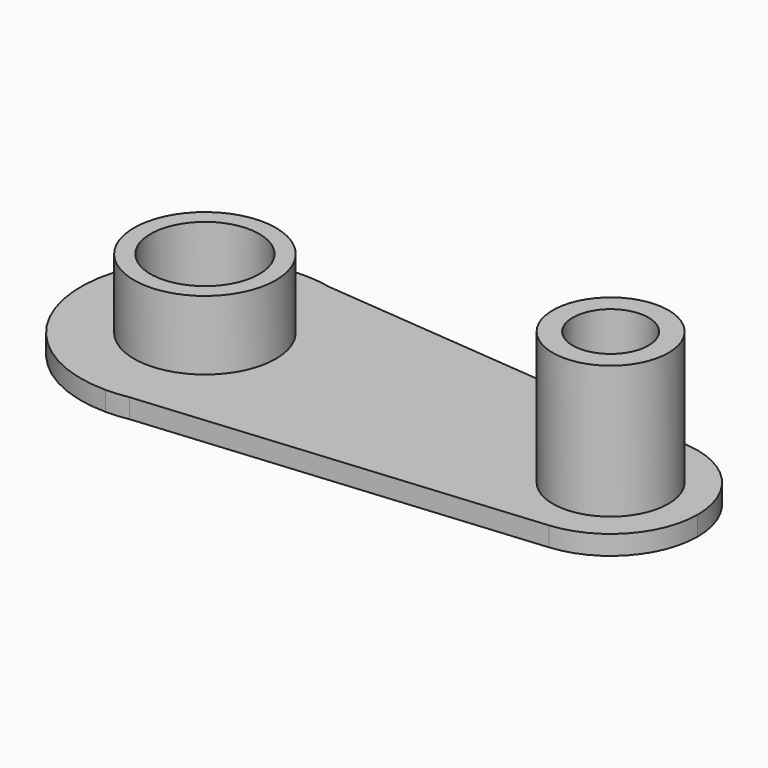
from build123d import *

# Parameters (mm, degrees)
F1_DEPTH = 7
F2_R     = 20.8798
F2_R_2   = 13.684699
F3_DEPTH = 48
F4_R     = 25.632052
F4_R_2   = 19.647778
F5_DEPTH = 25


with BuildPart() as f1:
    # F0 (on Top) → F1 (new body)
    with BuildSketch(Plane.XY):
        with BuildLine():
            Line((-78.980386, 43.715201), (-91.017656, 44.785673))
            ThreePointArc((-91.017656, 44.785673), (-133.756226, -1.040908), (-88.936403, -44.834108))
            Line((-88.936403, -44.834108), (-80.883583, -44.105383))
            ThreePointArc((-80.883583, -44.105383), (-54.502824, -28.715457), (-44.100093, 0))
            ThreePointArc((-44.100093, 0), (-53.888748, 27.962715), (-78.980386, 43.715201))
        make_face()
        with BuildLine():
            ThreePointArc((-78.980386, 43.715201), (-84.962788, 44.657868), (-91.017656, 44.785673))
            Line((-91.017656, 44.785673), (-78.980386, 43.715201))
        make_face()
        with BuildLine():
            Line((-80.883583, -44.105383), (-88.936403, -44.834108))
            ThreePointArc((-88.936403, -44.834108), (-84.893531, -44.651655), (-80.883583, -44.105383))
        make_face()
        with BuildLine():
            Line((60.404596, 31.319727), (-78.980386, 43.715201))
            ThreePointArc((-78.980386, 43.715201), (-53.888748, 27.962715), (-44.100093, 0))
            ThreePointArc((-44.100093, 0), (-54.502824, -28.715457), (-80.883583, -44.105383))
            Line((-80.883583, -44.105383), (60.453168, -31.31537))
            ThreePointArc((60.453168, -31.31537), (26.17602, -0.024383), (60.404596, 31.319727))
        make_face()
        with BuildLine():
            ThreePointArc((89.06267, 0), (80.816977, 21.226225), (60.404596, 31.319727))
            ThreePointArc((60.404596, 31.319727), (26.17602, -0.024383), (60.453168, -31.31537))
            ThreePointArc((60.453168, -31.31537), (80.83343, -21.20823), (89.06267, 0))
        make_face()
    extrude(amount=F1_DEPTH)

    # F2 (on face) → F3 (join)
    with BuildSketch(Plane.XY.offset(7)):
        with Locations((57.61934, 0)):
            Circle(F2_R)
        with Locations((57.61934, 0)):
            Circle(F2_R_2, mode=Mode.SUBTRACT)
    extrude(amount=F3_DEPTH)

    # F4 (on face) → F5 (join)
    with BuildSketch(Plane.XY.offset(7)):
        with Locations((-88.934202, 0)):
            Circle(F4_R)
        with Locations((-88.934202, 0)):
            Circle(F4_R_2, mode=Mode.SUBTRACT)
    extrude(amount=F5_DEPTH)


solid = f1.part
